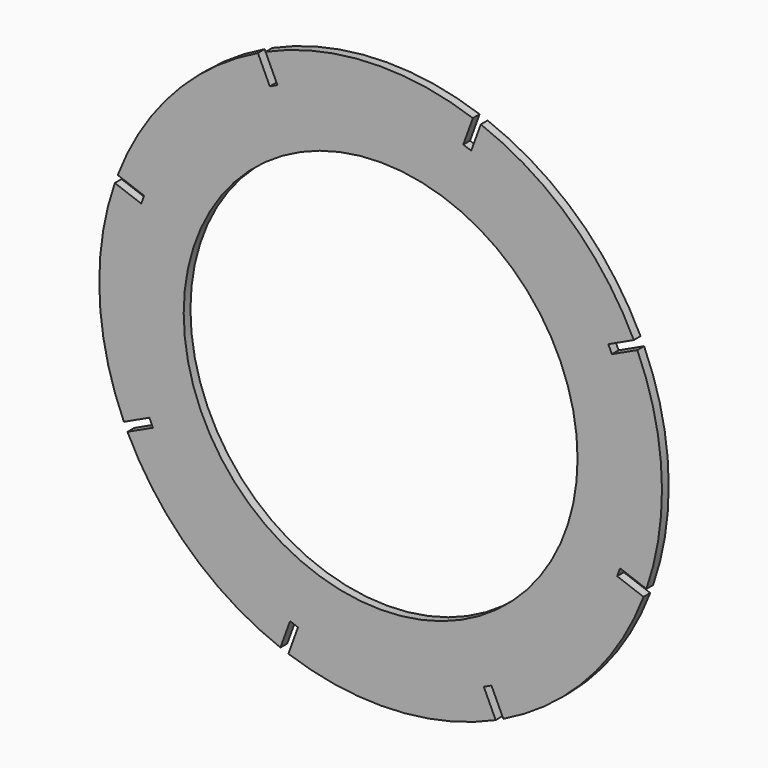
from build123d import *

# Parameters (mm, degrees)
F0_R     = 100
F0_R_2   = 70
F1_DEPTH = 3
F3_DEPTH = 3


with BuildPart() as f1:
    # F0 (on Front) → F1 (new body)
    with BuildSketch(Plane.XZ):
        Circle(F0_R)
        Circle(F0_R_2, mode=Mode.SUBTRACT)
    extrude(amount=F1_DEPTH)

    # F2 (on face) → F3 (cut)
    with BuildSketch(Plane.XZ.offset(3)):
        Polygon((-82.201628, -36.676182), (-100.327784, -45.128547), (-99.059929, -47.84747), (-80.933773, -39.395105), align=None)
        Polygon((-39.031755, -102.853158), (-36.212677, -103.879219), (-29.372274, -85.085366), (-32.191352, -84.059306), align=None)
        Polygon((45.128547, -100.327784), (47.84747, -99.059929), (39.395105, -80.933773), (36.676182, -82.201628), align=None)
        Polygon((102.853158, -39.031755), (103.879219, -36.212677), (85.085366, -29.372274), (84.059306, -32.191352), align=None)
        Polygon((100.327784, 45.128547), (99.059929, 47.84747), (80.933773, 39.395105), (82.201628, 36.676182), align=None)
        Polygon((39.031755, 102.853158), (36.212677, 103.879219), (29.372274, 85.085366), (32.191352, 84.059306), align=None)
        Polygon((-45.128547, 100.327784), (-47.84747, 99.059929), (-39.395105, 80.933773), (-36.676182, 82.201628), align=None)
        Polygon((-102.853158, 39.031755), (-103.879219, 36.212677), (-85.085366, 29.372274), (-84.059306, 32.191352), align=None)
    extrude(amount=-F3_DEPTH, mode=Mode.SUBTRACT)


solid = f1.part
